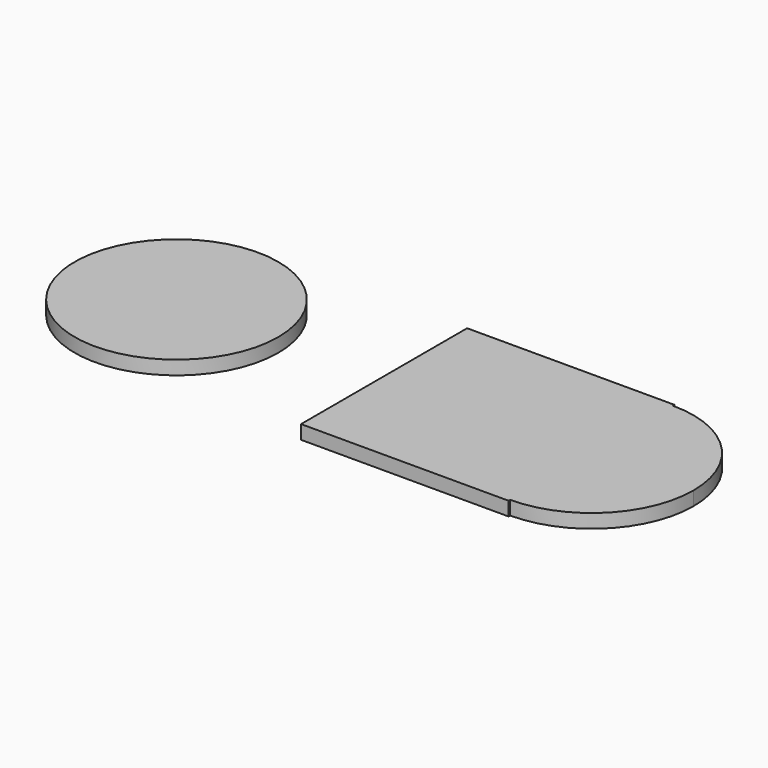
from build123d import *

# Parameters (mm, degrees)
F1_DEPTH = 25.4
F0_R     = 186.3908965445


with BuildPart() as f1:
    # F0 (on Top) → F1 (new body)
    with BuildSketch(Plane.XY):
        with BuildLine():
            Line((0, 379.984), (0, 0))
            Line((0, 0), (379.984, 0))
            Line((379.984, 0), (379.984, 3.6011034555))
            ThreePointArc((379.984, 3.6011034555), (193.5931034555, 189.992), (379.984, 376.3828965445))
            Line((379.984, 376.3828965445), (379.984, 379.984))
            Line((379.984, 379.984), (0, 379.984))
        make_face()
        with BuildLine():
            ThreePointArc((379.984, 376.3828965445), (193.5931034555, 189.992), (379.984, 3.6011034555))
            Line((379.984, 3.6011034555), (379.984, 376.3828965445))
        make_face()
        with BuildLine():
            Line((379.984, 376.3828965445), (379.984, 3.6011034555))
            ThreePointArc((379.984, 3.6011034555), (511.782266898, 58.193733102), (566.3748965445, 189.992))
            ThreePointArc((566.3748965445, 189.992), (511.782266898, 321.790266898), (379.984, 376.3828965445))
        make_face()
    extrude(amount=F1_DEPTH)


with BuildPart() as f1b:
    # F0 (on Top) → F1, piece 2 (new body)
    with BuildSketch(Plane.XY):
        with Locations((-379.984, 189.992)):
            Circle(F0_R)
    extrude(amount=F1_DEPTH)


solid = Compound([f1.part, f1b.part])
